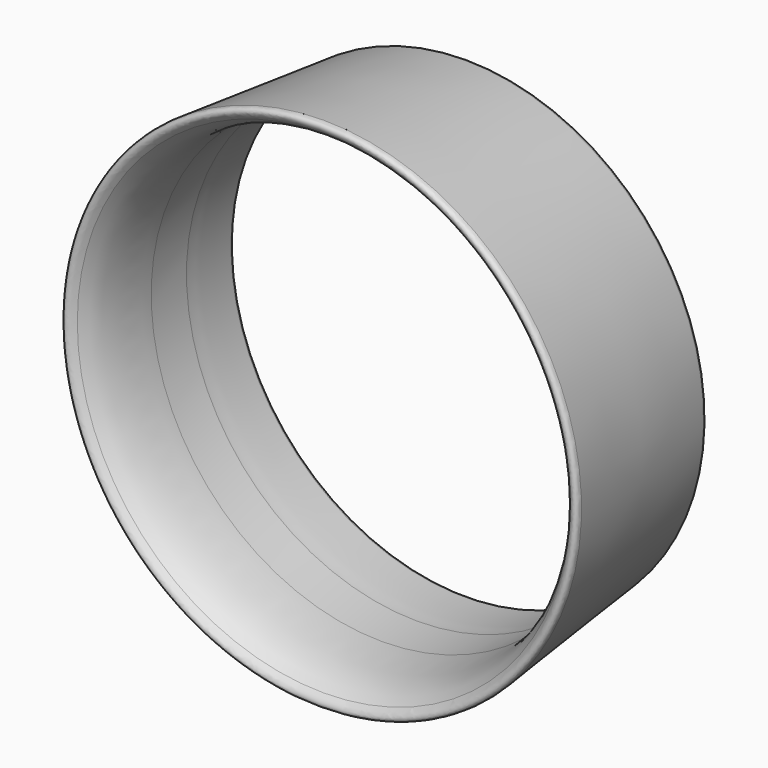
from build123d import *


with BuildPart() as f1:
    # F0 (on Right) → F1 (revolve)
    with BuildSketch(Plane.YZ):
        with BuildLine():
            Line((19.689846, 12.996431), (10.119836, 14.018301))
            add(Edge.make_bspline(
                [(10.119836, 14.018301), (9.754522, 14.018301), (9.666619, 13.699654), (10.119836, 13.391992)],
                knots=[0, 0, 0, 0, 0.626309, 0.626309, 0.626309, 0.626309], degree=3))
            add(Edge.make_bspline(
                [(10.119836, 13.391992), (10.842319, 12.776672), (11.941105, 12.545928), (14.083736, 12.545928)],
                knots=[0, 0, 0, 0, 4.053187, 4.053187, 4.053187, 4.053187], degree=3))
            Line((14.083736, 12.545928), (16.479088, 12.545928))
            add(Edge.make_bspline(
                [(19.689846, 12.699759), (17.830594, 12.545928), (16.610942, 12.545928), (16.479088, 12.545928)],
                knots=[0, 0, 0, 0, 3.214441, 3.214441, 3.214441, 3.214441], degree=3))
            add(Edge.make_bspline(
                [(19.689846, 12.996431), (19.907298, 12.996431), (19.907298, 12.699759), (19.689846, 12.699759)],
                knots=[0, 0, 0, 0, 0.296672, 0.296672, 0.296672, 0.296672], degree=3))
        make_face()
    revolve(axis=Axis((0, 4.895088, 0), (0, 1, 0)))


solid = f1.part
